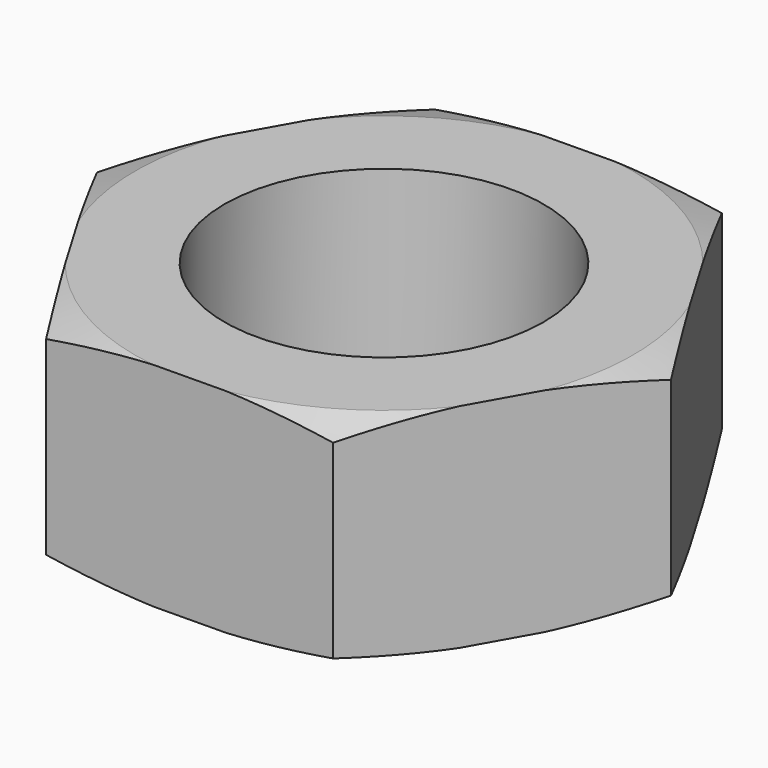
from build123d import *

# Parameters (mm, degrees)
F0_R     = 9
F1_DEPTH = 6


with BuildPart() as f1:
    # F0 (on Top) → F1 (new body, symmetric)
    with BuildSketch(Plane.XY):
        Polygon((-16.04101, -0.173579), (-7.870181, -13.978712), (8.170829, -13.805133), (16.04101, 0.173579), (7.870181, 13.978712), (-8.170829, 13.805133), align=None)
        Circle(F0_R, mode=Mode.SUBTRACT)
    extrude(amount=F1_DEPTH, both=True)

    # F2 (on Front) → F3 (revolve, cut)
    with BuildSketch(Plane.XZ):
        Polygon((-14.04101, 6), (-16.04101, 6), (-16.04101, 5.355825), align=None)
        Polygon((-14.04101, -6), (-16.04101, -5.355825), (-16.04101, -6), align=None)
    revolve(axis=Axis((0, 0, 0), (0, 0, -1)), mode=Mode.SUBTRACT)


solid = f1.part
